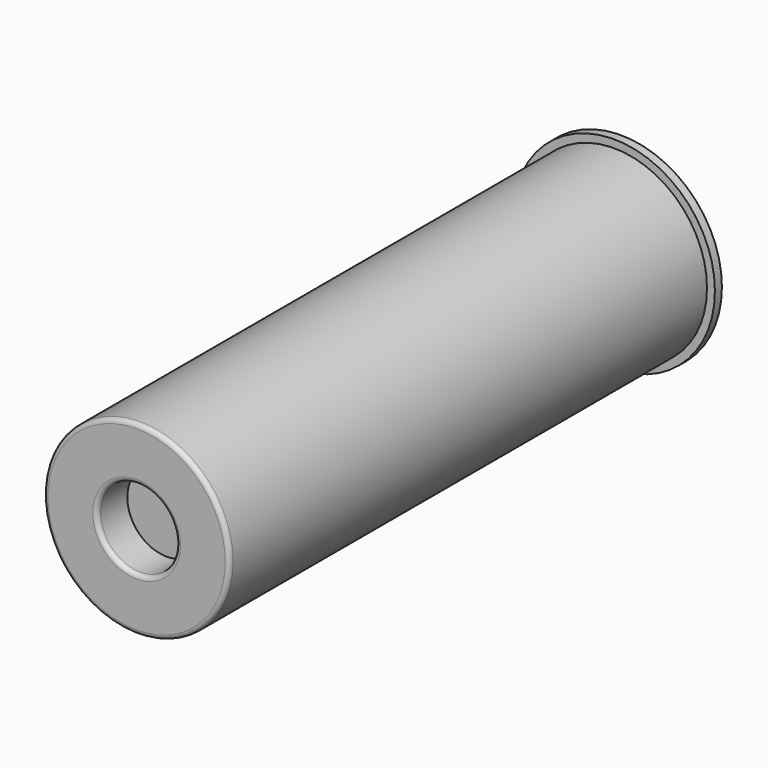
from build123d import *

# Parameters (mm, degrees)
F2_R = 0.5


with BuildPart() as f1:
    # F0 (on Top) → F1 (revolve)
    with BuildSketch(Plane.XY):
        Polygon((2.9, -2), (0, -2), (0, -65.7), (4.5, -65.7), (4.5, -70), (10.6, -70), (10.6, -2), (11.5, -2), (11.5, -1), (10.4, 0), (2.9, 0), align=None)
    revolve(axis=Axis((0, -33.85, 0), (0, -1, 0)))

    # F2
    f2_edges = [f1.edges().sort_by_distance(p)[0] for p in [
        (-10.6, -70, 0),
        (-4.5, -70, 0),
    ]]
    fillet(f2_edges, radius=F2_R)


solid = f1.part
